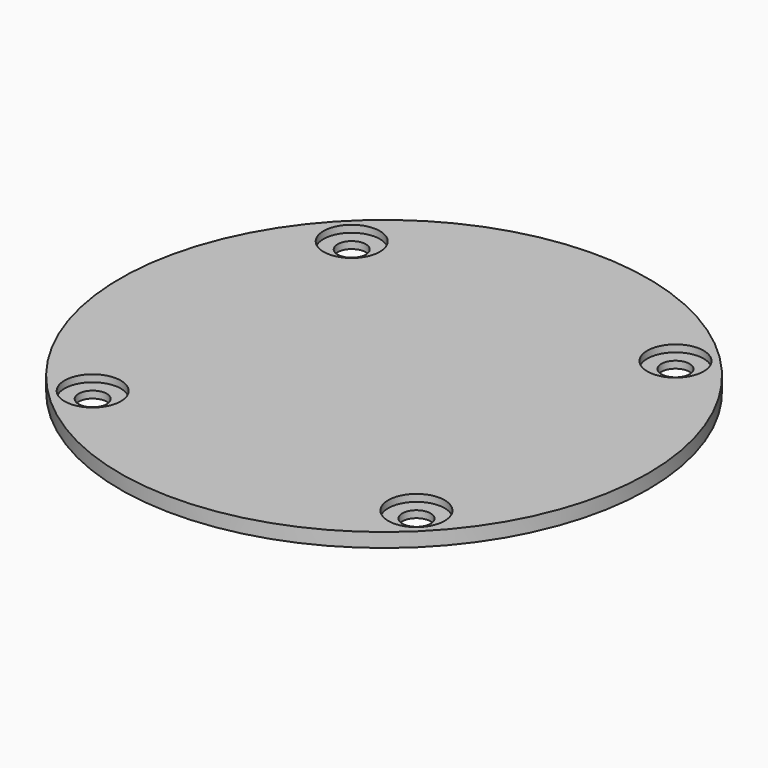
from build123d import *

# Parameters (mm, degrees)
F0_R     = 37.5
F0_R_2   = 2
F1_DEPTH = 2
F2_R     = 4
F3_DEPTH = 1


with BuildPart() as f1:
    # F0 (on Top) → F1 (new body)
    with BuildSketch(Plane.XY):
        Circle(F0_R)
        with Locations((-23, -23)):
            Circle(F0_R_2, mode=Mode.SUBTRACT)
        with Locations((23, -23)):
            Circle(F0_R_2, mode=Mode.SUBTRACT)
        with Locations((-23, 23)):
            Circle(F0_R_2, mode=Mode.SUBTRACT)
        with Locations((23, 23)):
            Circle(F0_R_2, mode=Mode.SUBTRACT)
    extrude(amount=F1_DEPTH)

    # F2 (on face) → F3 (cut)
    with BuildSketch(Plane.XY.offset(2)):
        with Locations((-23, 23)):
            Circle(F2_R)
        with Locations((23, 23)):
            Circle(F2_R)
        with Locations((-23, -23)):
            Circle(F2_R)
        with Locations((23, -23)):
            Circle(F2_R)
    extrude(amount=-F3_DEPTH, mode=Mode.SUBTRACT)


solid = f1.part
